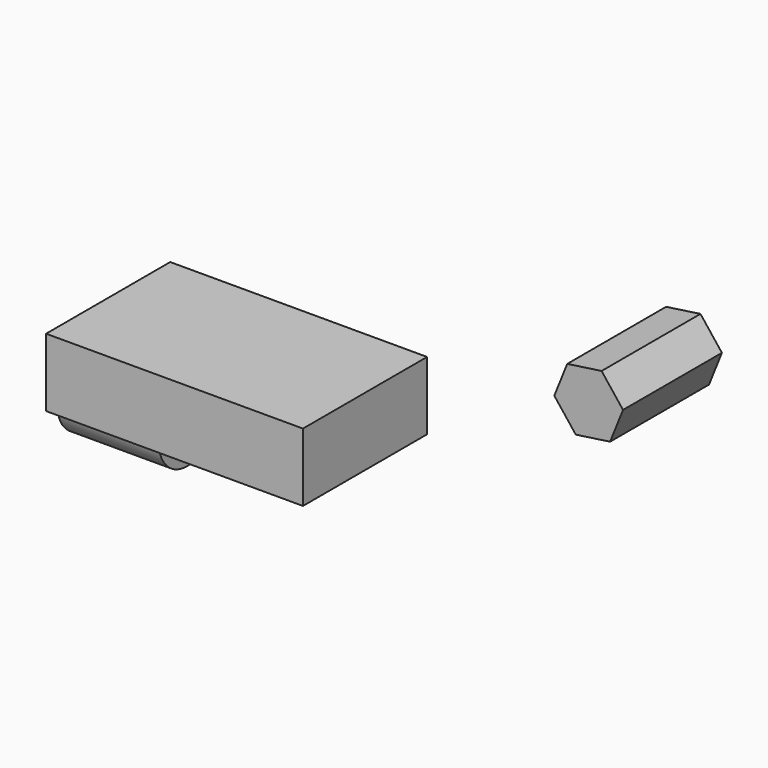
from build123d import *

# Parameters (mm, degrees)
F0_W      = 42.3654569313
F0_H      = 31.8825021386
F1_DEPTH  = 7
F1_FACE_W = 31.8825021386
F1_FACE_H = 14
F3_DEPTH  = 10.414
F5_DEPTH  = 25.4


with BuildPart() as f1:
    # F0 (on Top) → F1 (new body, symmetric)
    with BuildSketch(Plane.XY):
        with Locations((-28.9487093687, 0)):
            Rectangle(F0_W, F0_H)
    extrude(amount=F1_DEPTH, both=True)

    # F2 (on face) + F1_face (on face) → F3 (join, symmetric)
    with BuildSketch(Plane(origin=(-50.1314378344, 0, 0), x_dir=(0, -1, 0), z_dir=(-1, 0, 0))):
        with BuildLine():
            Line((-1.6167561431, -7), (13.0820755754, -7))
            ThreePointArc((13.0820755754, -7), (5.7326597162, 0.3494158592), (-1.6167561431, -7))
        make_face()
        with BuildLine():
            ThreePointArc((-1.6167561431, -7), (5.7326597162, -14.3494158592), (13.0820755754, -7))
            Line((13.0820755754, -7), (-1.6167561431, -7))
        make_face()
    with BuildSketch(Plane(origin=(-50.1314378344, 0, 0), x_dir=(0, -1, 0), z_dir=(-1, 0, 0))):
        Rectangle(F1_FACE_W, F1_FACE_H)
    extrude(amount=F3_DEPTH, both=True)


with BuildPart() as f5:
    # F4 (on face) → F5 (new body)
    with BuildSketch(Plane(origin=(0, 15.9412510693, 0), x_dir=(-1, 0, 0), z_dir=(0, 1, 0))):
        Polygon((-21.0274129238, 15.1079419327), (-28.0873961747, 16.1190163344), (-32.4930039171, 10.5104286897), (-29.8386284087, 3.8907666433), (-22.7786451578, 2.8796922415), (-18.3730374153, 8.4882798862), align=None)
    extrude(amount=F5_DEPTH)


solid = Compound([f1.part, f5.part])
